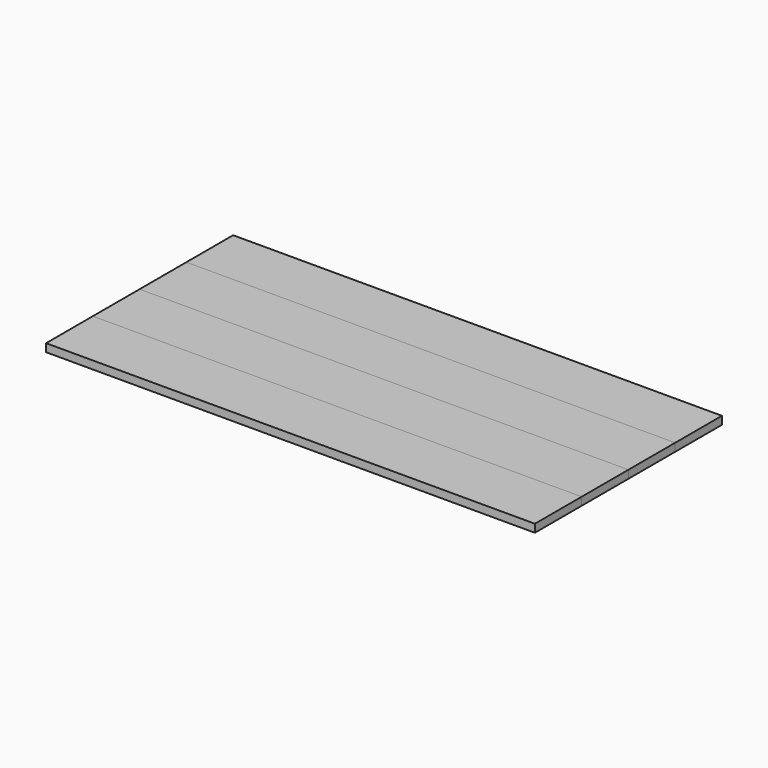
from build123d import *

# Parameters (mm, degrees)
F0_W     = 1168.4
F0_H     = 139.7
F1_DEPTH = 19.05


with BuildPart() as f1:
    # F0 (on Top) → F1 (new body)
    with BuildSketch(Plane.XY):
        with Locations((542.718986, 80.283874)):
            Rectangle(F0_W, F0_H)
    extrude(amount=F1_DEPTH)


with BuildPart() as f2_1:
    # F2: copy of F1
    add(f1.part.moved(Location((0, 139.7, 0))))


with BuildPart() as f3_1:
    # F3: copy of F2_1
    add(f2_1.part.moved(Location((0, 139.7, 0))))


with BuildPart() as f4_1:
    # F4: copy of F3_1
    add(f3_1.part.moved(Location((0, 139.7, 0))))


solid = Compound([f1.part, f2_1.part, f3_1.part, f4_1.part])
